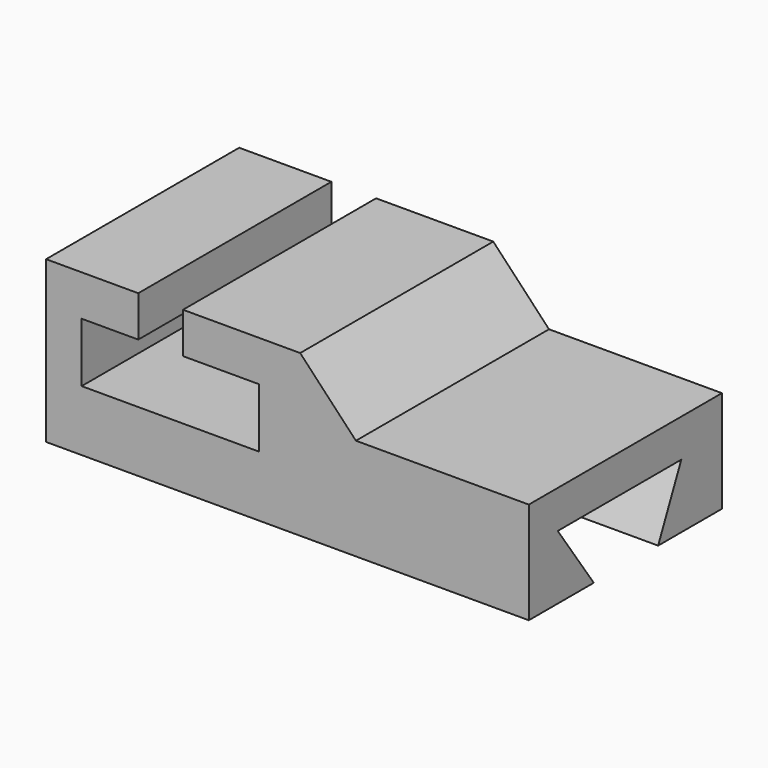
from build123d import *

# Parameters (mm, degrees)
F0_W     = 152.4
F0_H     = 76.2
F1_DEPTH = 50.8
F3_DEPTH = 76.2
F5_DEPTH = 76.2
F7_DEPTH = 76.2


with BuildPart() as f1:
    # F0 (on Top) → F1 (new body)
    with BuildSketch(Plane.XY):
        with Locations((214.419328, 35.965416)):
            Rectangle(F0_W, F0_H)
    extrude(amount=F1_DEPTH)

    # F2 (on face) → F3 (cut)
    with BuildSketch(Plane.XZ.offset(2.134584)):
        Polygon((181.445256, 50.8), (167.318881, 50.8), (167.318881, 37.91061), (149.444669, 37.91061), (149.444669, 19.171527), (205.37363, 19.171527), (205.37363, 37.91061), (181.445256, 37.91061), align=None)
    extrude(amount=-F3_DEPTH, mode=Mode.SUBTRACT)

    # F4 (on face) → F5 (cut)
    with BuildSketch(Plane.XZ.offset(2.134584)):
        Polygon((290.619328, 50.8), (218.435228, 50.8), (236.032292, 32.15526), (290.619328, 32.15526), align=None)
    extrude(amount=-F5_DEPTH, mode=Mode.SUBTRACT)

    # F6 (on face) → F7 (cut)
    with BuildSketch(Plane.YZ.offset(290.619328)):
        Polygon((9.271001, 20.193001), (23.494998, 0), (48.895001, 0), (58.039002, 20.193001), align=None)
    extrude(amount=-F7_DEPTH, mode=Mode.SUBTRACT)


solid = f1.part
